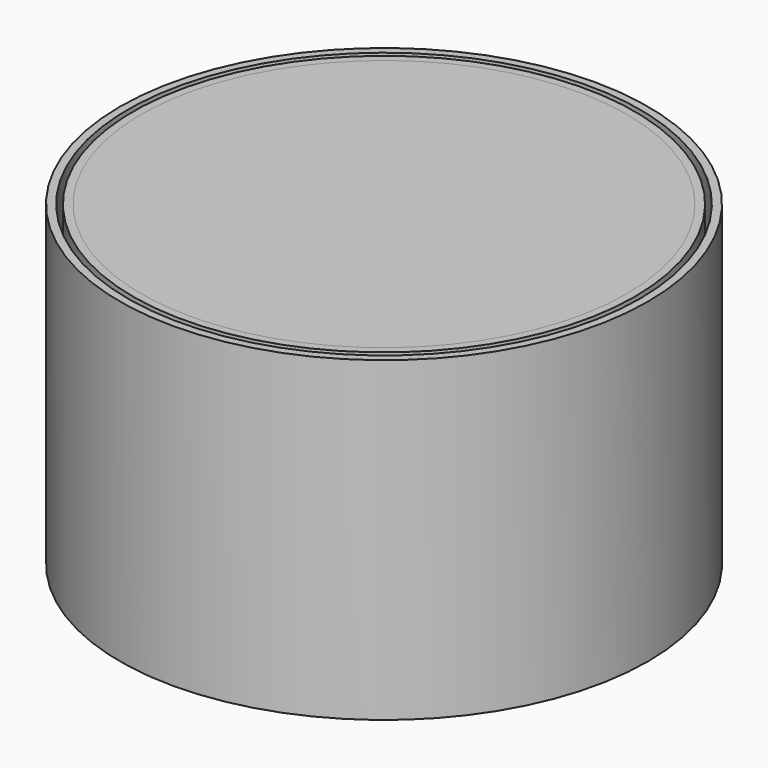
from build123d import *

# Parameters (mm, degrees)
SKETCH001_R      = 48.5
SKETCH001_R_2    = 47.5
EXTRUDE001_DEPTH = 20
SKETCH_R         = 50
EXTRUDE_DEPTH    = 60
EXTRUDE003_DEPTH = 4.5
SKETCH002_R      = 46
EXTRUDE002_DEPTH = 40
BOX_W            = 23
BOX_H            = 34
BOX_DEPTH        = 1
SKETCH004_W      = 4
SKETCH004_H      = 34
EXTRUDE004_DEPTH = 7


with BuildPart() as extrude001:
    # Sketch001 (on Face3 of Extrude) → Extrude001 (new body)
    with BuildSketch(Plane.XY.offset(60)):
        Circle(SKETCH001_R)
        Circle(SKETCH001_R_2, mode=Mode.SUBTRACT)
    extrude(amount=-EXTRUDE001_DEPTH)


with BuildPart() as extrude_body:
    # Sketch → Extrude (new body)
    with BuildSketch(Plane.XY):
        Circle(SKETCH_R)
    extrude(amount=EXTRUDE_DEPTH)


with BuildPart() as cut:
    # Cut base: copy of Extrude body
    add(extrude_body.part)

    # Cut: cut Extrude001
    add(extrude001.part, mode=Mode.SUBTRACT)


with BuildPart() as extrude003:
    # Sketch003 → Extrude003 (new body)
    with BuildSketch(Plane.XZ.offset(-50)):
        Polygon((-2.5, 23), (2.5, 23), (3.5, 21.732051), (2.5, 20), (-2.5, 20), (-3.5, 21.732051), align=None)
    extrude(amount=EXTRUDE003_DEPTH)


with BuildPart() as extrude002:
    # Sketch002 (on Face7 of Cut) → Extrude002 (new body)
    with BuildSketch(Plane.XY.offset(60)):
        Circle(SKETCH002_R)
    extrude(amount=-EXTRUDE002_DEPTH)


with BuildPart() as cut003:
    # Cut001 base: copy of Extrude body
    add(extrude_body.part)

    # Cut001: cut Extrude001
    add(extrude001.part, mode=Mode.SUBTRACT)

    # Cut002: cut Extrude002
    add(extrude002.part, mode=Mode.SUBTRACT)

    # Cut003: cut Extrude003
    add(extrude003.part, mode=Mode.SUBTRACT)


with BuildPart() as box:
    # Box → Box (new body)
    with BuildSketch(Plane(origin=(-11.5, 9.8, 23), x_dir=(1, 0, 0), z_dir=(0, 0, 1))):
        with Locations((11.5, 17)):
            Rectangle(BOX_W, BOX_H)
    extrude(amount=BOX_DEPTH)


with BuildPart() as cut004:
    # Sketch004 (on Face14 of Cut003) → Extrude004 (new body)
    with BuildSketch(Plane.XY.offset(20)):
        with Locations((-12, 26.817805)):
            Rectangle(SKETCH004_W, SKETCH004_H)
        with Locations((12, 26.817805)):
            Rectangle(SKETCH004_W, SKETCH004_H)
    extrude(amount=EXTRUDE004_DEPTH)

    # Cut004: cut Box
    add(box.part, mode=Mode.SUBTRACT)


solid = Compound([cut.part, cut003.part, cut004.part])
